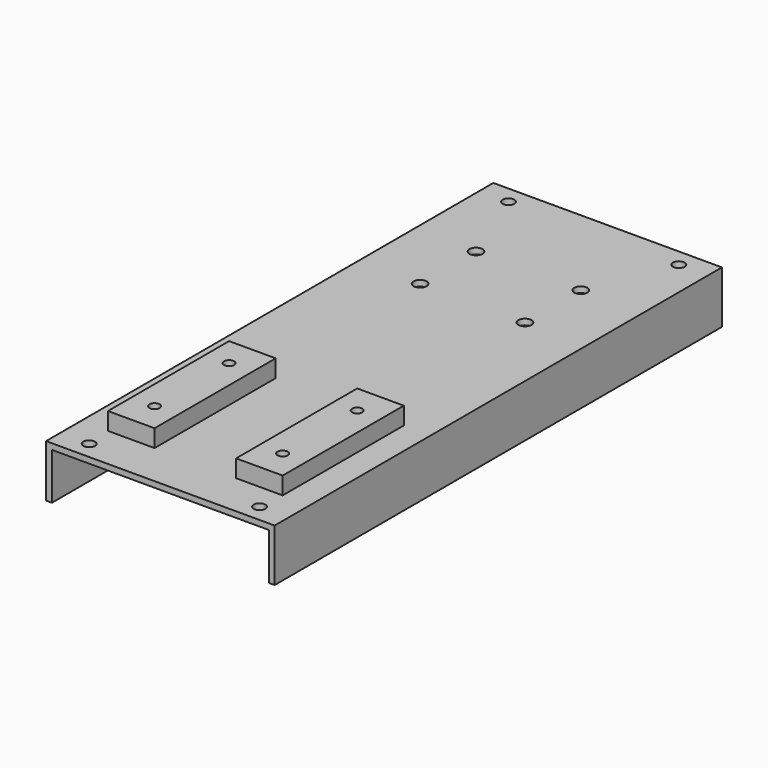
from build123d import *

# Parameters (mm, degrees)
F0_R     = 5.55625
F0_R_2   = 7.14375
F1_DEPTH = 6.35
F2_W     = 6.35
F2_H     = 609.6
F3_DEPTH = 50.8
F4_W     = 50.8
F4_H     = 165.1
F5_DEPTH = 19.05
F6_DEPTH = 25.4
F7_R     = 6.35
F8_DEPTH = 25.4


with BuildPart() as f1:
    # F0 (on Top) → F1 (new body)
    with BuildSketch(Plane.XY):
        Polygon((-124.61875, 304.8), (-124.61875, -304.8), (124.61875, -304.8), (124.61875, 304.8), (0, 304.8), align=None)
        with Locations((-69.85, -225.425)):
            Circle(F0_R, mode=Mode.SUBTRACT)
        with Locations((-69.85, -123.825)):
            Circle(F0_R, mode=Mode.SUBTRACT)
        with BuildLine():
            ThreePointArc((75.40625, -225.425), (69.85, -230.98125), (64.29375, -225.425))
            ThreePointArc((64.29375, -225.425), (69.85, -219.86875), (75.40625, -225.425))
        make_face(mode=Mode.SUBTRACT)
        with BuildLine():
            ThreePointArc((75.40625, -123.825), (69.85, -129.38125), (64.29375, -123.825))
            ThreePointArc((64.29375, -123.825), (69.85, -118.26875), (75.40625, -123.825))
        make_face(mode=Mode.SUBTRACT)
        with Locations((-57.15, 120.65)):
            Circle(F0_R_2, mode=Mode.SUBTRACT)
        with Locations((-57.15, 196.85)):
            Circle(F0_R_2, mode=Mode.SUBTRACT)
        with BuildLine():
            ThreePointArc((64.29375, 120.65), (57.15, 113.50625), (50.00625, 120.65))
            ThreePointArc((50.00625, 120.65), (57.15, 127.79375), (64.29375, 120.65))
        make_face(mode=Mode.SUBTRACT)
        with BuildLine():
            ThreePointArc((64.29375, 196.85), (57.15, 189.70625), (50.00625, 196.85))
            ThreePointArc((50.00625, 196.85), (57.15, 203.99375), (64.29375, 196.85))
        make_face(mode=Mode.SUBTRACT)
    extrude(amount=F1_DEPTH)

    # F2 (on face) → F3 (join)
    with BuildSketch(Plane(origin=(0, 0, 0), x_dir=(1, 0, 0), z_dir=(0, 0, -1))):
        with Locations((-121.44375, 0)):
            Rectangle(F2_W, F2_H)
        with Locations((121.44375, 0)):
            Rectangle(F2_W, F2_H)
    extrude(amount=F3_DEPTH)

    # F4 (on face) → F5 (join)
    with BuildSketch(Plane.XY.offset(6.35)):
        with Locations((-69.85, -174.625)):
            Rectangle(F4_W, F4_H)
        with Locations((69.85, -174.625)):
            Rectangle(F4_W, F4_H)
    extrude(amount=F5_DEPTH)

    # F6 (cut): faces of the model
    f6_faces = [f1.faces().sort_by_distance(p)[0] for p in [
        (-69.85, -123.825, 6.35),
        (-69.85, -225.425, 6.35),
        (69.85, -225.425, 6.35),
        (69.85, -123.825, 6.35),
    ]]
    extrude(f6_faces, amount=-F6_DEPTH, mode=Mode.SUBTRACT)

    # F7 (on face) → F8 (cut)
    with BuildSketch(Plane(origin=(0, 0, 0), x_dir=(1, 0, 0), z_dir=(0, 0, -1))):
        with Locations((-92.86875, 285.75)):
            Circle(F7_R)
        with Locations((92.86875, 285.75)):
            Circle(F7_R)
        with Locations((92.86875, -285.75)):
            Circle(F7_R)
        with Locations((-92.86875, -285.75)):
            Circle(F7_R)
    extrude(amount=-F8_DEPTH, mode=Mode.SUBTRACT)


solid = f1.part
